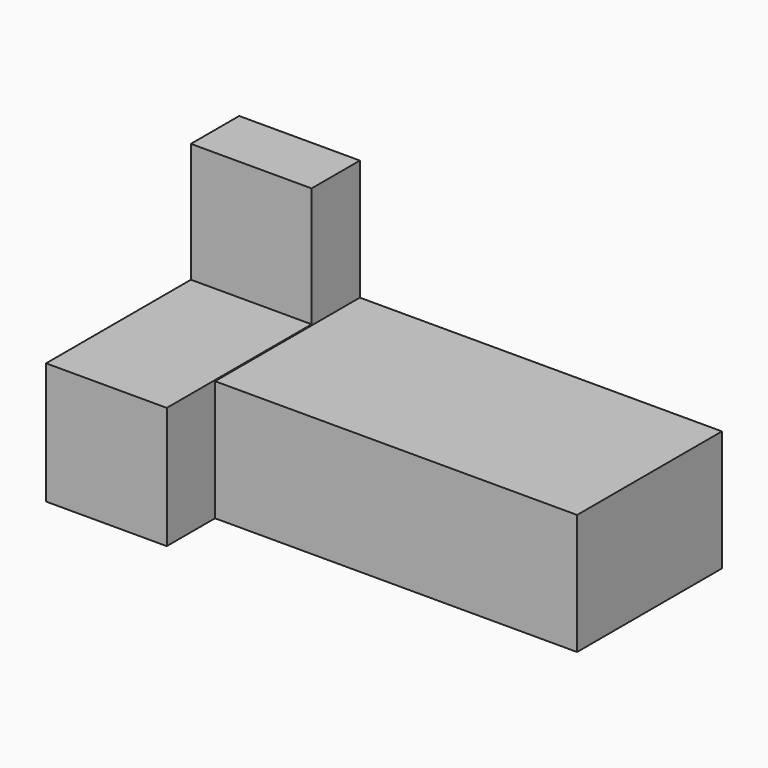
from build123d import *

# Parameters (mm, degrees)
F0_W     = 152.3603492588
F0_H     = 50.8
F1_DEPTH = 101.6
F2_W     = 152.4
F2_H     = 50.8
F3_DEPTH = 25.4
F4_W     = 50.8
F4_H     = 50.8
F5_DEPTH = 76.2


with BuildPart() as f1:
    # F0 (on Front) → F1 (new body)
    with BuildSketch(Plane.XZ):
        Polygon((-47.2552540332, -18.1309473828), (-98.0552540332, -18.1309473828), (-98.0552540332, -119.7309473828), (-47.215603292, -119.7309473828), (-47.215603292, -68.9309473828), (-47.2552540332, -68.9309473828), align=None)
        with Locations((28.9645713374, -94.3309473828)):
            Rectangle(F0_W, F0_H)
    extrude(amount=-F1_DEPTH)

    # F2 (on Front) → F3 (cut)
    with BuildSketch(Plane.XZ):
        with Locations((28.9447459668, -94.3309473828)):
            Rectangle(F2_W, F2_H)
    extrude(amount=-F3_DEPTH, mode=Mode.SUBTRACT)

    # F4 (on Front) → F5 (cut)
    with BuildSketch(Plane.XZ):
        with Locations((-72.6552540332, -43.0878863094)):
            Rectangle(F4_W, F4_H)
    extrude(amount=-F5_DEPTH, mode=Mode.SUBTRACT)


solid = f1.part
